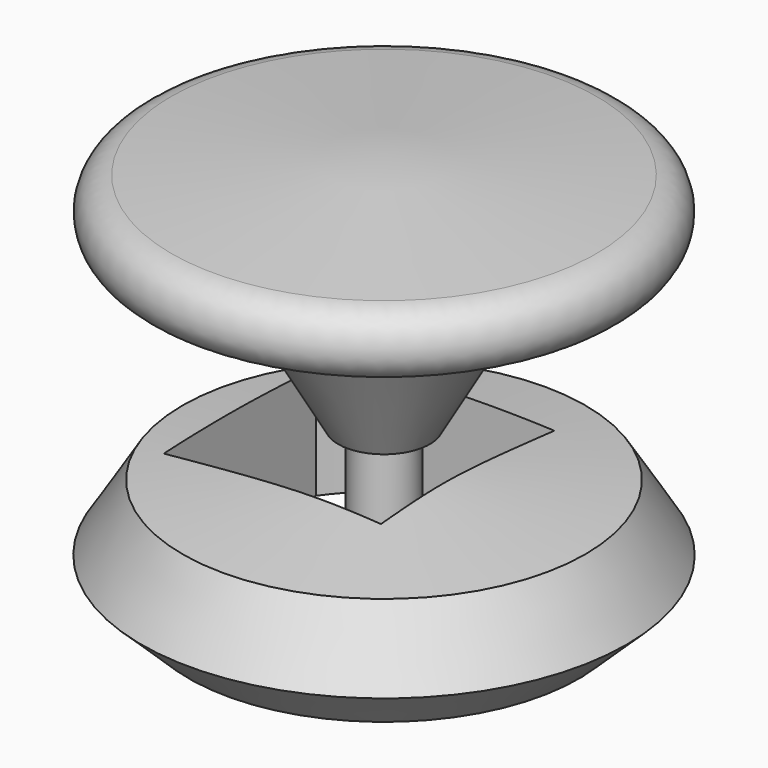
from build123d import *

# Parameters (mm, degrees)
F2_R     = 7.2294051774
F3_R     = 6.7273611203
F4_DEPTH = 35.3


with BuildPart() as f1:
    # F0 (on Front) → F1 (revolve)
    with BuildSketch(Plane.XZ):
        Polygon((-43.5639172792, -21.2115701288), (-6.7273611203, -21.2115701288), (0, -21.4539151639), (0, 67.7293241024), (-77.492326498, 61.1859895289), (-24.6609486639, 39.6172180772), (-6.7273611203, 7.8699216247), (-45.017991215, 3.7500439212), (-54.2271323502, -11.0330488533), align=None)
    revolve(axis=Axis((0, 0, 23.1377044693), (0, 0, -1)))

    # F2
    f2_edges = [f1.edges().sort_by_distance(p)[0] for p in [
        (77.492326, 0, 61.18599),
    ]]
    fillet(f2_edges, radius=F2_R)

    # F3 (on face) → F4 (cut, symmetric)
    with BuildSketch(Plane(origin=(0, 0, -21.2115701288), x_dir=(1, 0, 0), z_dir=(0, 0, -1))):
        with BuildLine():
            Line((-30.3486299041, -31.2534086406), (13.0534712225, -31.2534086406))
            Line((13.0534712225, -31.2534086406), (13.0534712225, 17.1710327268))
            Line((13.0534712225, 17.1710327268), (-35.4708246887, 17.1710327268))
            Line((-35.4708246887, 17.1710327268), (-35.4708246887, -25.2910158874))
            ThreePointArc((-35.4708246887, -25.2910158874), (-33.0444803645, -28.3879764364), (-30.3486299041, -31.2534086406))
        make_face()
        Circle(F3_R, mode=Mode.SUBTRACT)
    extrude(amount=F4_DEPTH, both=True, mode=Mode.SUBTRACT)


solid = f1.part
